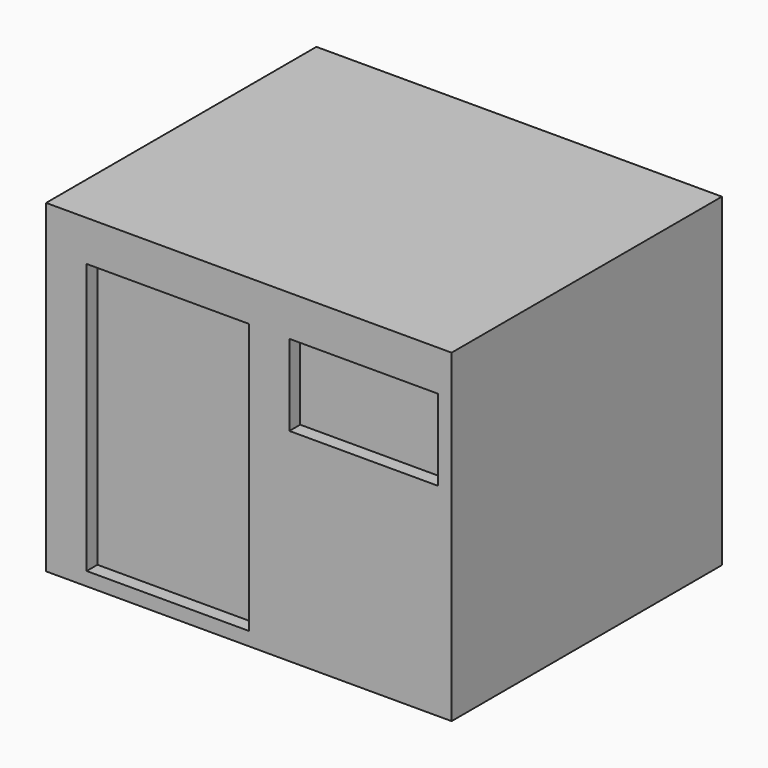
from build123d import *

# Parameters (mm, degrees)
F0_W     = 3
F0_H     = 2.4
F0_W_2   = 1.2
F0_H_2   = 2
F0_W_3   = 1.1
F0_H_3   = 0.6
F1_DEPTH = 0.1
F2_DEPTH = 2.4


with BuildPart() as f1:
    # F0 (on Front) → F1 (new body)
    with BuildSketch(Plane.XZ):
        Rectangle(F0_W, F0_H)
        with Locations((-0.6, -0.1)):
            Rectangle(F0_W_2, F0_H_2, mode=Mode.SUBTRACT)
        with Locations((0.85, 0.6)):
            Rectangle(F0_W_3, F0_H_3, mode=Mode.SUBTRACT)
    extrude(amount=F1_DEPTH)

    # F0 (on Front) → F2 (join)
    with BuildSketch(Plane.XZ):
        Rectangle(F0_W, F0_H)
        with Locations((-0.6, -0.1)):
            Rectangle(F0_W_2, F0_H_2, mode=Mode.SUBTRACT)
        with Locations((0.85, 0.6)):
            Rectangle(F0_W_3, F0_H_3, mode=Mode.SUBTRACT)
        with Locations((-0.6, -0.1)):
            Rectangle(F0_W_2, F0_H_2)
        with Locations((0.85, 0.6)):
            Rectangle(F0_W_3, F0_H_3)
    extrude(amount=-F2_DEPTH)


solid = f1.part
